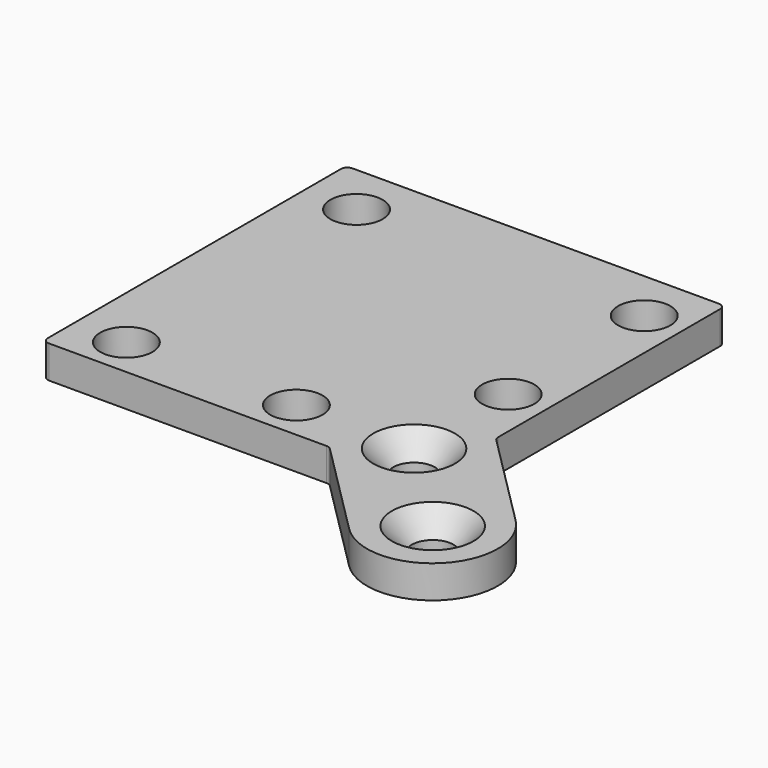
from build123d import *

# Parameters (mm, degrees)
F1_DEPTH       = 7.9375
F3_D           = 12.7
F5_D           = 10.0838
F5_CSINK_D     = 19.8374
F5_CSINK_ANGLE = 82
F6_R           = 1.5875


with BuildPart() as f1:
    # F0 (on Top) → F1 (new body)
    with BuildSketch(Plane.XY):
        with BuildLine():
            Line((-46.0375, -46.0375), (23.5868596973, -46.0375))
            Line((23.5868596973, -46.0375), (47.5121798487, -69.9628201513))
            ThreePointArc((47.5121798487, -69.9628201513), (69.9628201513, -69.9628201513), (69.9628201513, -47.5121798487))
            Line((69.9628201513, -47.5121798487), (46.0375, -23.5868596973))
            Line((46.0375, -23.5868596973), (46.0375, 46.0375))
            Line((46.0375, 46.0375), (-46.0375, 46.0375))
            Line((-46.0375, 46.0375), (-46.0375, -46.0375))
        make_face()
    extrude(amount=F1_DEPTH)

    # F3 (through all)
    with Locations(Plane.XY.offset(7.9375)):
        with Locations((-33.3375, 33.3375), (-33.3375, -36.5125), (7.9375, -36.5125), (36.5125, -7.9375), (36.5125, 33.3375)):
            Hole(F3_D / 2)

    # F5 (through all)
    with Locations(Plane.XY.offset(7.9375)):
        with Locations((36.5125, -36.5125), (59.139916998, -59.139916998)):
            CounterSinkHole(F5_D / 2, F5_CSINK_D / 2, counter_sink_angle=F5_CSINK_ANGLE)

    # F6
    f6_edges = [f1.edges().sort_by_distance(p)[0] for p in [
        (-46.0375, -46.0375, 3.96875),
        (-46.0375, 46.0375, 3.96875),
        (46.0375, 46.0375, 3.96875),
        (46.0375, -23.58686, 3.96875),
        (23.58686, -46.0375, 3.96875),
    ]]
    fillet(f6_edges, radius=F6_R)


solid = f1.part
